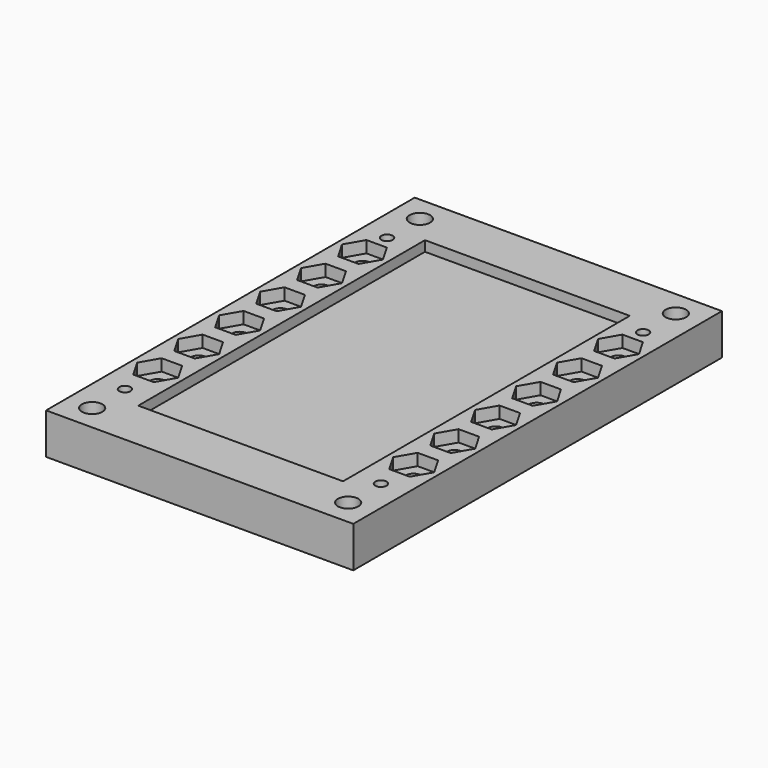
from build123d import *

# Parameters (mm, degrees)
SKETCH_W                           = 76.2
SKETCH_H                           = 114.3
PAD_DEPTH                          = 10.16
SKETCH001_R                        = 1.397
HOLE_DEPTH                         = 285.654416
SKETCH002_R                        = 1.905
HOLE001_DEPTH                      = 285.654416
SKETCH001_MIRRORED_2_R             = 1.397
HOLE_MIRRORED_2_DEPTH              = 285.654416
SKETCH002_LINEARPATTERN_2_R        = 1.905
HOLE001_LINEARPATTERN_2_DEPTH      = 285.654416
SKETCH002_LINEARPATTERN_3_R        = 1.905
HOLE001_LINEARPATTERN_3_DEPTH      = 285.654416
SKETCH002_LINEARPATTERN_4_R        = 1.905
HOLE001_LINEARPATTERN_4_DEPTH      = 285.654416
SKETCH002_LINEARPATTERN_5_R        = 1.905
HOLE001_LINEARPATTERN_5_DEPTH      = 285.654416
SKETCH002_LINEARPATTERN_6_R        = 1.905
HOLE001_LINEARPATTERN_6_DEPTH      = 285.654416
SKETCH003_W                        = 50.8
SKETCH003_H                        = 88.9
POCKET_DEPTH                       = 2.54
SKETCH004_R                        = 2.54
HOLE002_DEPTH                      = 285.654416
SKETCH004_MIRRORED003_2_R          = 2.54
HOLE002_MIRRORED003_2_DEPTH        = 285.654416
POCKET001_DEPTH                    = 2.921
POCKET001_LINEARPATTERN001_2_DEPTH = 2.921
POCKET001_LINEARPATTERN001_3_DEPTH = 2.921
POCKET001_LINEARPATTERN001_4_DEPTH = 2.921
POCKET001_LINEARPATTERN001_5_DEPTH = 2.921
POCKET001_LINEARPATTERN001_6_DEPTH = 2.921


with BuildPart() as part:
    # Sketch → Pad (new body)
    with BuildSketch(Plane.XY):
        Rectangle(SKETCH_W, SKETCH_H)
    extrude(amount=PAD_DEPTH)

    # Sketch001 (on Face6 of Pad) → Hole (cut, through all)
    with BuildSketch(Plane.XY.offset(10.16)):
        with Locations((-31.75, 40.64)):
            Circle(SKETCH001_R)
    hole = extrude(amount=-HOLE_DEPTH, mode=Mode.SUBTRACT)

    # Sketch002 (on Face5 of Hole) → Hole001 (cut, through all)
    with BuildSketch(Plane.XY.offset(10.16)):
        with Locations((-31.75, 33.02)):
            Circle(SKETCH002_R)
    hole001 = extrude(amount=-HOLE001_DEPTH, mode=Mode.SUBTRACT)

    # Sketch001 Mirrored 2 → Hole Mirrored 2 (cut, through all)
    with BuildSketch(Plane(origin=(0, 0, 10.16), x_dir=(-1, 0, 0), z_dir=(0, 0, -1))):
        with Locations((-31.75, 40.64)):
            Circle(SKETCH001_MIRRORED_2_R)
    hole_mirrored_2 = extrude(amount=HOLE_MIRRORED_2_DEPTH, mode=Mode.SUBTRACT)

    # Mirrored001: Hole, Hole Mirrored 2 across Sketch001 H_Axis
    add(hole.mirror(Plane(origin=(0, 0, 10.16), x_dir=(0, 0, 1), z_dir=(0, 1, 0))), mode=Mode.SUBTRACT)
    add(hole_mirrored_2.mirror(Plane(origin=(0, 0, 10.16), x_dir=(0, 0, 1), z_dir=(0, 1, 0))), mode=Mode.SUBTRACT)

    # Sketch002 LinearPattern 2 → Hole001 LinearPattern 2 (cut, through all)
    with BuildSketch(Plane(origin=(0, -12.7, 10.16), x_dir=(1, 0, 0), z_dir=(0, 0, 1))):
        with Locations((-31.75, 33.02)):
            Circle(SKETCH002_LINEARPATTERN_2_R)
    hole001_linearpattern_2 = extrude(amount=-HOLE001_LINEARPATTERN_2_DEPTH, mode=Mode.SUBTRACT)

    # Sketch002 LinearPattern 3 → Hole001 LinearPattern 3 (cut, through all)
    with BuildSketch(Plane(origin=(0, -25.4, 10.16), x_dir=(1, 0, 0), z_dir=(0, 0, 1))):
        with Locations((-31.75, 33.02)):
            Circle(SKETCH002_LINEARPATTERN_3_R)
    hole001_linearpattern_3 = extrude(amount=-HOLE001_LINEARPATTERN_3_DEPTH, mode=Mode.SUBTRACT)

    # Sketch002 LinearPattern 4 → Hole001 LinearPattern 4 (cut, through all)
    with BuildSketch(Plane(origin=(0, -38.1, 10.16), x_dir=(1, 0, 0), z_dir=(0, 0, 1))):
        with Locations((-31.75, 33.02)):
            Circle(SKETCH002_LINEARPATTERN_4_R)
    hole001_linearpattern_4 = extrude(amount=-HOLE001_LINEARPATTERN_4_DEPTH, mode=Mode.SUBTRACT)

    # Sketch002 LinearPattern 5 → Hole001 LinearPattern 5 (cut, through all)
    with BuildSketch(Plane(origin=(0, -50.8, 10.16), x_dir=(1, 0, 0), z_dir=(0, 0, 1))):
        with Locations((-31.75, 33.02)):
            Circle(SKETCH002_LINEARPATTERN_5_R)
    hole001_linearpattern_5 = extrude(amount=-HOLE001_LINEARPATTERN_5_DEPTH, mode=Mode.SUBTRACT)

    # Sketch002 LinearPattern 6 → Hole001 LinearPattern 6 (cut, through all)
    with BuildSketch(Plane(origin=(0, -63.5, 10.16), x_dir=(1, 0, 0), z_dir=(0, 0, 1))):
        with Locations((-31.75, 33.02)):
            Circle(SKETCH002_LINEARPATTERN_6_R)
    hole001_linearpattern_6 = extrude(amount=-HOLE001_LINEARPATTERN_6_DEPTH, mode=Mode.SUBTRACT)

    # Mirrored002: Hole001, Hole001 LinearPattern 2, Hole001 LinearPattern 3, Hole001 LinearPattern 4, Hole001 LinearPattern 5, Hole001 LinearPattern 6 across Sketch002 V_Axis
    add(hole001.mirror(Plane(origin=(0, 0, 10.16), x_dir=(0, 0, 1), z_dir=(1, 0, 0))), mode=Mode.SUBTRACT)
    add(hole001_linearpattern_2.mirror(Plane(origin=(0, 0, 10.16), x_dir=(0, 0, 1), z_dir=(1, 0, 0))), mode=Mode.SUBTRACT)
    add(hole001_linearpattern_3.mirror(Plane(origin=(0, 0, 10.16), x_dir=(0, 0, 1), z_dir=(1, 0, 0))), mode=Mode.SUBTRACT)
    add(hole001_linearpattern_4.mirror(Plane(origin=(0, 0, 10.16), x_dir=(0, 0, 1), z_dir=(1, 0, 0))), mode=Mode.SUBTRACT)
    add(hole001_linearpattern_5.mirror(Plane(origin=(0, 0, 10.16), x_dir=(0, 0, 1), z_dir=(1, 0, 0))), mode=Mode.SUBTRACT)
    add(hole001_linearpattern_6.mirror(Plane(origin=(0, 0, 10.16), x_dir=(0, 0, 1), z_dir=(1, 0, 0))), mode=Mode.SUBTRACT)

    # Sketch003 (on Face5 of MultiTransform001) → Pocket (cut)
    with BuildSketch(Plane.XY.offset(10.16)):
        Rectangle(SKETCH003_W, SKETCH003_H)
    extrude(amount=-POCKET_DEPTH, mode=Mode.SUBTRACT)

    # Sketch004 (on Face5 of Pocket) → Hole002 (cut, through all)
    with BuildSketch(Plane.XY.offset(10.16)):
        with Locations((-31.75, 50.8)):
            Circle(SKETCH004_R)
    hole002 = extrude(amount=-HOLE002_DEPTH, mode=Mode.SUBTRACT)

    # Sketch004 Mirrored003 2 → Hole002 Mirrored003 2 (cut, through all)
    with BuildSketch(Plane(origin=(0, 0, 10.16), x_dir=(-1, 0, 0), z_dir=(0, 0, -1))):
        with Locations((-31.75, 50.8)):
            Circle(SKETCH004_MIRRORED003_2_R)
    hole002_mirrored003_2 = extrude(amount=HOLE002_MIRRORED003_2_DEPTH, mode=Mode.SUBTRACT)

    # Mirrored004: Hole002, Hole002 Mirrored003 2 across Sketch004 H_Axis
    add(hole002.mirror(Plane(origin=(0, 0, 10.16), x_dir=(0, 0, 1), z_dir=(0, 1, 0))), mode=Mode.SUBTRACT)
    add(hole002_mirrored003_2.mirror(Plane(origin=(0, 0, 10.16), x_dir=(0, 0, 1), z_dir=(0, 1, 0))), mode=Mode.SUBTRACT)

    # Sketch005 (on Face5 of MultiTransform002) → Pocket001 (cut)
    with BuildSketch(Plane.XY.offset(10.16)):
        Polygon((-29.21, 37.419409), (-34.29, 37.419409), (-36.83, 33.02), (-34.29, 28.620591), (-29.21, 28.620591), (-26.67, 33.02), align=None)
    pocket001 = extrude(amount=-POCKET001_DEPTH, mode=Mode.SUBTRACT)

    # Sketch005 LinearPattern001 2 → Pocket001 LinearPattern001 2 (cut)
    with BuildSketch(Plane(origin=(0, -12.7, 10.16), x_dir=(1, 0, 0), z_dir=(0, 0, 1))):
        Polygon((-29.21, 37.419409), (-34.29, 37.419409), (-36.83, 33.02), (-34.29, 28.620591), (-29.21, 28.620591), (-26.67, 33.02), align=None)
    pocket001_linearpattern001_2 = extrude(amount=-POCKET001_LINEARPATTERN001_2_DEPTH, mode=Mode.SUBTRACT)

    # Sketch005 LinearPattern001 3 → Pocket001 LinearPattern001 3 (cut)
    with BuildSketch(Plane(origin=(0, -25.4, 10.16), x_dir=(1, 0, 0), z_dir=(0, 0, 1))):
        Polygon((-29.21, 37.419409), (-34.29, 37.419409), (-36.83, 33.02), (-34.29, 28.620591), (-29.21, 28.620591), (-26.67, 33.02), align=None)
    pocket001_linearpattern001_3 = extrude(amount=-POCKET001_LINEARPATTERN001_3_DEPTH, mode=Mode.SUBTRACT)

    # Sketch005 LinearPattern001 4 → Pocket001 LinearPattern001 4 (cut)
    with BuildSketch(Plane(origin=(0, -38.1, 10.16), x_dir=(1, 0, 0), z_dir=(0, 0, 1))):
        Polygon((-29.21, 37.419409), (-34.29, 37.419409), (-36.83, 33.02), (-34.29, 28.620591), (-29.21, 28.620591), (-26.67, 33.02), align=None)
    pocket001_linearpattern001_4 = extrude(amount=-POCKET001_LINEARPATTERN001_4_DEPTH, mode=Mode.SUBTRACT)

    # Sketch005 LinearPattern001 5 → Pocket001 LinearPattern001 5 (cut)
    with BuildSketch(Plane(origin=(0, -50.8, 10.16), x_dir=(1, 0, 0), z_dir=(0, 0, 1))):
        Polygon((-29.21, 37.419409), (-34.29, 37.419409), (-36.83, 33.02), (-34.29, 28.620591), (-29.21, 28.620591), (-26.67, 33.02), align=None)
    pocket001_linearpattern001_5 = extrude(amount=-POCKET001_LINEARPATTERN001_5_DEPTH, mode=Mode.SUBTRACT)

    # Sketch005 LinearPattern001 6 → Pocket001 LinearPattern001 6 (cut)
    with BuildSketch(Plane(origin=(0, -63.5, 10.16), x_dir=(1, 0, 0), z_dir=(0, 0, 1))):
        Polygon((-29.21, 37.419409), (-34.29, 37.419409), (-36.83, 33.02), (-34.29, 28.620591), (-29.21, 28.620591), (-26.67, 33.02), align=None)
    pocket001_linearpattern001_6 = extrude(amount=-POCKET001_LINEARPATTERN001_6_DEPTH, mode=Mode.SUBTRACT)

    # Mirrored005: Pocket001, Pocket001 LinearPattern001 2, Pocket001 LinearPattern001 3, Pocket001 LinearPattern001 4, Pocket001 LinearPattern001 5, Pocket001 LinearPattern001 6 across Sketch005 V_Axis
    add(pocket001.mirror(Plane(origin=(0, 0, 10.16), x_dir=(0, 0, 1), z_dir=(1, 0, 0))), mode=Mode.SUBTRACT)
    add(pocket001_linearpattern001_2.mirror(Plane(origin=(0, 0, 10.16), x_dir=(0, 0, 1), z_dir=(1, 0, 0))), mode=Mode.SUBTRACT)
    add(pocket001_linearpattern001_3.mirror(Plane(origin=(0, 0, 10.16), x_dir=(0, 0, 1), z_dir=(1, 0, 0))), mode=Mode.SUBTRACT)
    add(pocket001_linearpattern001_4.mirror(Plane(origin=(0, 0, 10.16), x_dir=(0, 0, 1), z_dir=(1, 0, 0))), mode=Mode.SUBTRACT)
    add(pocket001_linearpattern001_5.mirror(Plane(origin=(0, 0, 10.16), x_dir=(0, 0, 1), z_dir=(1, 0, 0))), mode=Mode.SUBTRACT)
    add(pocket001_linearpattern001_6.mirror(Plane(origin=(0, 0, 10.16), x_dir=(0, 0, 1), z_dir=(1, 0, 0))), mode=Mode.SUBTRACT)


solid = part.part
